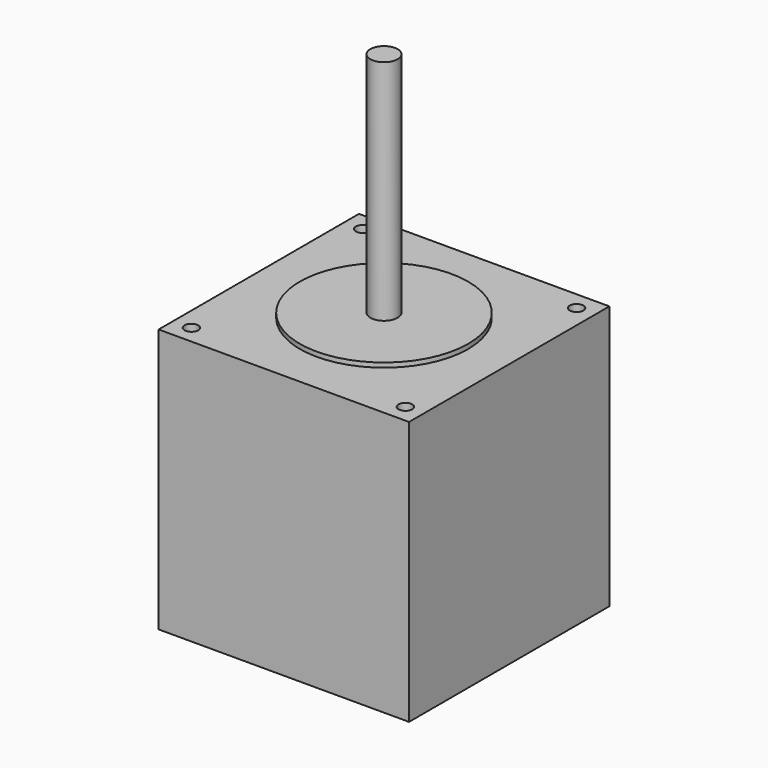
from build123d import *

# Parameters (mm, degrees)
F0_W     = 55
F0_H     = 55
F1_DEPTH = 58
F2_R     = 18.5
F3_DEPTH = 1
F4_R     = 3
F5_DEPTH = 50
F6_R     = 1.5
F7_DEPTH = 25


with BuildPart() as f1:
    # F0 (on Top) → F1 (new body)
    with BuildSketch(Plane.XY):
        with Locations((27.5, 27.5)):
            Rectangle(F0_W, F0_H)
    extrude(amount=F1_DEPTH)

    # F2 (on face) → F3 (join)
    with BuildSketch(Plane.XY.offset(58)):
        with Locations((27.5, 27.5)):
            Circle(F2_R)
    extrude(amount=F3_DEPTH)

    # F4 (on face) → F5 (join)
    with BuildSketch(Plane.XY.offset(59)):
        with Locations((27.5, 27.5)):
            Circle(F4_R)
    extrude(amount=F5_DEPTH)

    # F6 (on face) → F7 (cut)
    with BuildSketch(Plane.XY.offset(58)):
        with Locations((4, 51)):
            Circle(F6_R)
        with Locations((4, 4)):
            Circle(F6_R)
        with Locations((51, 4)):
            Circle(F6_R)
        with Locations((51, 51)):
            Circle(F6_R)
    extrude(amount=-F7_DEPTH, mode=Mode.SUBTRACT)


solid = f1.part
